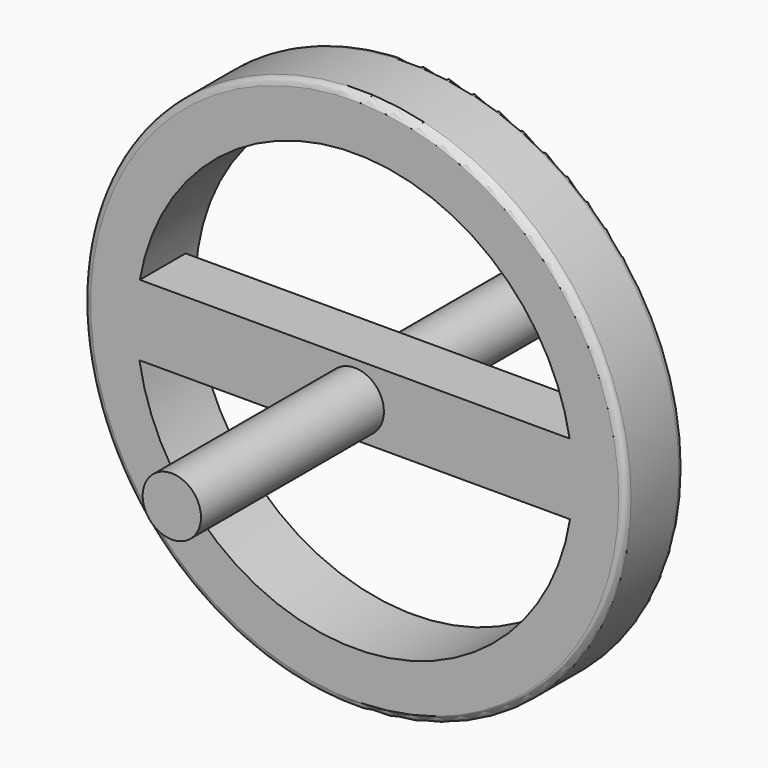
from build123d import *

# Parameters (mm, degrees)
F0_R     = 30.099
F1_DEPTH = 8.128
F2_R     = 24.216053
F3_DEPTH = 25.4
F4_W     = 54.685762
F4_H     = 7.879252
F5_DEPTH = 6.35
F6_R     = 3.239592
F7_DEPTH = 25.4
F8_DEPTH = 25.4
F9_R     = 0.762


with BuildPart() as f1:
    # F0 (on Front) → F1 (new body)
    with BuildSketch(Plane.XZ):
        Circle(F0_R)
    extrude(amount=F1_DEPTH)

    # F2 (on face) → F3 (cut)
    with BuildSketch(Plane.XZ.offset(8.128)):
        Circle(F2_R)
    extrude(amount=-F3_DEPTH, mode=Mode.SUBTRACT)

    # F4 (on face) → F5 (join)
    with BuildSketch(Plane.XZ.offset(8.128)):
        with Locations((-1.039022, 0.136772)):
            Rectangle(F4_W, F4_H)
    extrude(amount=-F5_DEPTH)

    # F6 (on face) → F7 (join)
    with BuildSketch(Plane.XZ.offset(8.128)):
        Circle(F6_R)
    extrude(amount=F7_DEPTH)

    # F6 (on face) → F8 (join)
    with BuildSketch(Plane.XZ.offset(8.128)):
        Circle(F6_R)
    extrude(amount=-F8_DEPTH)

    # F9
    f9_edges = [f1.edges().sort_by_distance(p)[0] for p in [
        (-30.099, 0, 0),
        (-30.099, -8.128, 0),
    ]]
    fillet(f9_edges, radius=F9_R)


solid = f1.part
